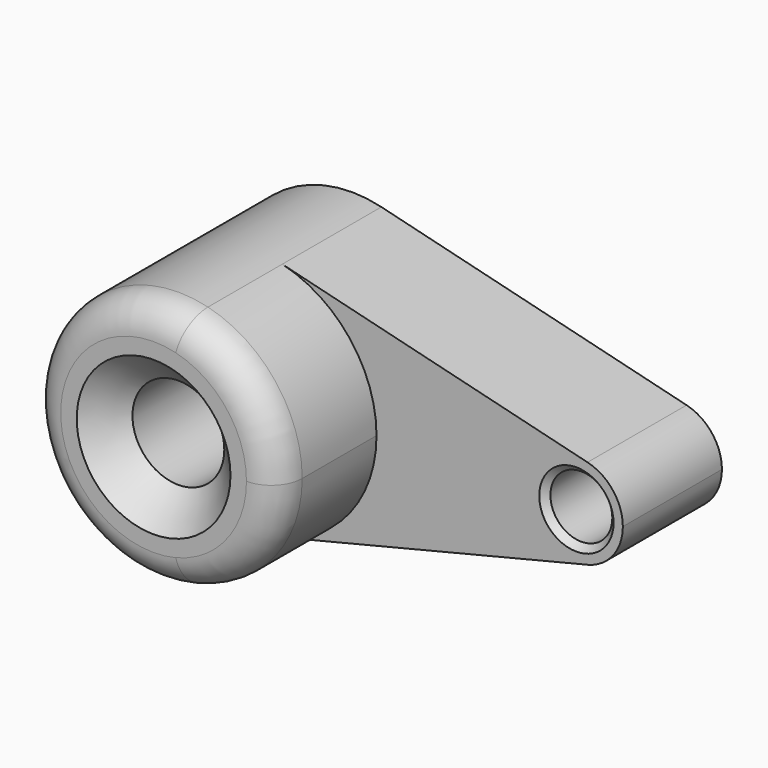
from build123d import *

# Parameters (mm, degrees)
F0_R     = 9.419676
F0_R_2   = 6.35
F1_DEPTH = 25.4
F2_DEPTH = 50.8
F3_R     = 6.35
F4_SIZE  = 6.35
F5_SIZE  = 1.27


with BuildPart() as f1:
    # F0 (on Front) → F1 (new body)
    with BuildSketch(Plane.XZ):
        with BuildLine():
            ThreePointArc((6.072938, -24.663321), (19.992657, -15.666962), (25.4, 0))
            ThreePointArc((25.4, 0), (19.992657, 15.666962), (6.072938, 24.663321))
            ThreePointArc((6.072938, 24.663321), (-25.4, 0), (6.072938, -24.663321))
        make_face()
        Circle(F0_R, mode=Mode.SUBTRACT)
        with BuildLine():
            ThreePointArc((6.072938, 24.663321), (19.992657, 15.666962), (25.4, 0))
            ThreePointArc((25.4, 0), (19.992657, -15.666962), (6.072938, -24.663321))
            Line((6.072938, -24.663321), (68.674372, -9.248746))
            ThreePointArc((68.674372, -9.248746), (56.87202, 0), (68.674372, 9.248746))
            Line((68.674372, 9.248746), (6.072938, 24.663321))
        make_face()
        with BuildLine():
            ThreePointArc((75.92202, 0), (73.894266, 5.875111), (68.674372, 9.248746))
            ThreePointArc((68.674372, 9.248746), (56.87202, 0), (68.674372, -9.248746))
            ThreePointArc((68.674372, -9.248746), (73.894266, -5.875111), (75.92202, 0))
        make_face()
        with Locations((66.39702, 0)):
            Circle(F0_R_2, mode=Mode.SUBTRACT)
    extrude(amount=F1_DEPTH)

    # F0 (on Front) → F2 (join)
    with BuildSketch(Plane.XZ):
        with BuildLine():
            ThreePointArc((6.072938, -24.663321), (19.992657, -15.666962), (25.4, 0))
            ThreePointArc((25.4, 0), (19.992657, 15.666962), (6.072938, 24.663321))
            ThreePointArc((6.072938, 24.663321), (-25.4, 0), (6.072938, -24.663321))
        make_face()
        Circle(F0_R, mode=Mode.SUBTRACT)
    extrude(amount=F2_DEPTH)

    # F3
    f3_edges = [f1.edges().sort_by_distance(p)[0] for p in [
        (-6.072938, -50.8, 24.663321),
    ]]
    fillet(f3_edges, radius=F3_R)

    # F4
    f4_edges = [f1.edges().sort_by_distance(p)[0] for p in [
        (-9.419676, -50.8, 0),
    ]]
    chamfer(f4_edges, length=F4_SIZE)

    # F5
    f5_edges = [f1.edges().sort_by_distance(p)[0] for p in [
        (60.04702, -25.4, 0),
    ]]
    chamfer(f5_edges, length=F5_SIZE)


solid = f1.part
